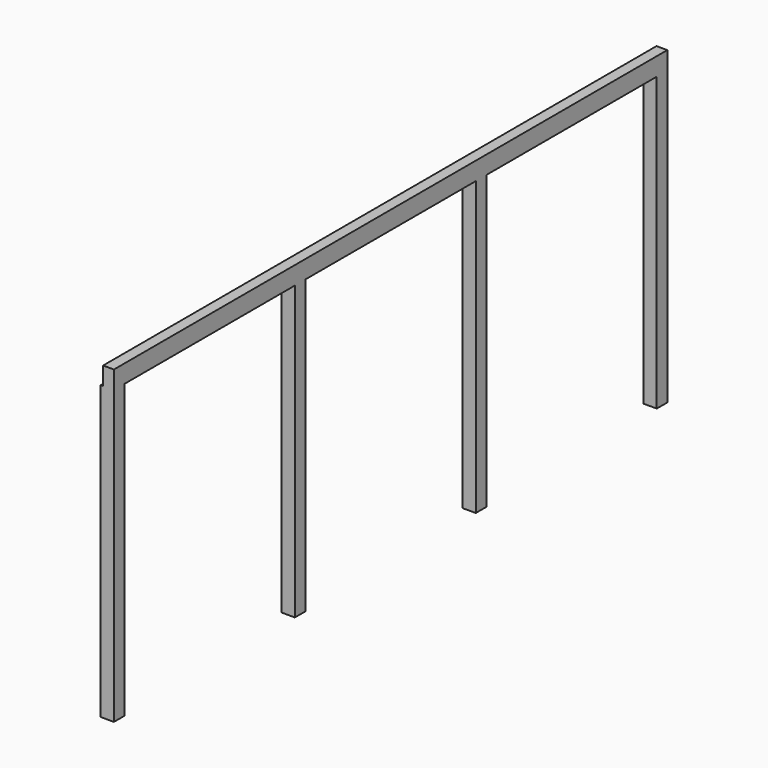
from build123d import *

# Parameters (mm, degrees)
F0_W     = 114.3
F0_H     = 7315.2
F1_DEPTH = 190.5
F2_W     = 139.7
F2_H     = 139.7
F3_DEPTH = 3090.1894


with BuildPart() as f1:
    # F0 (on Top) → F1 (new body)
    with BuildSketch(Plane.XY):
        Rectangle(F0_W, F0_H)
    extrude(amount=-F1_DEPTH)

    # F2 (on face) → F3 (join)
    with BuildSketch(Plane(origin=(0, 0, -190.5), x_dir=(1, 0, 0), z_dir=(0, 0, -1))):
        with Locations((-12.7, 3587.75)):
            Rectangle(F2_W, F2_H)
        with Locations((-12.7, 1195.916667)):
            Rectangle(F2_W, F2_H)
        with Locations((-12.7, -1195.916667)):
            Rectangle(F2_W, F2_H)
        with Locations((-12.7, -3587.75)):
            Rectangle(F2_W, F2_H)
    extrude(amount=F3_DEPTH)


solid = f1.part
